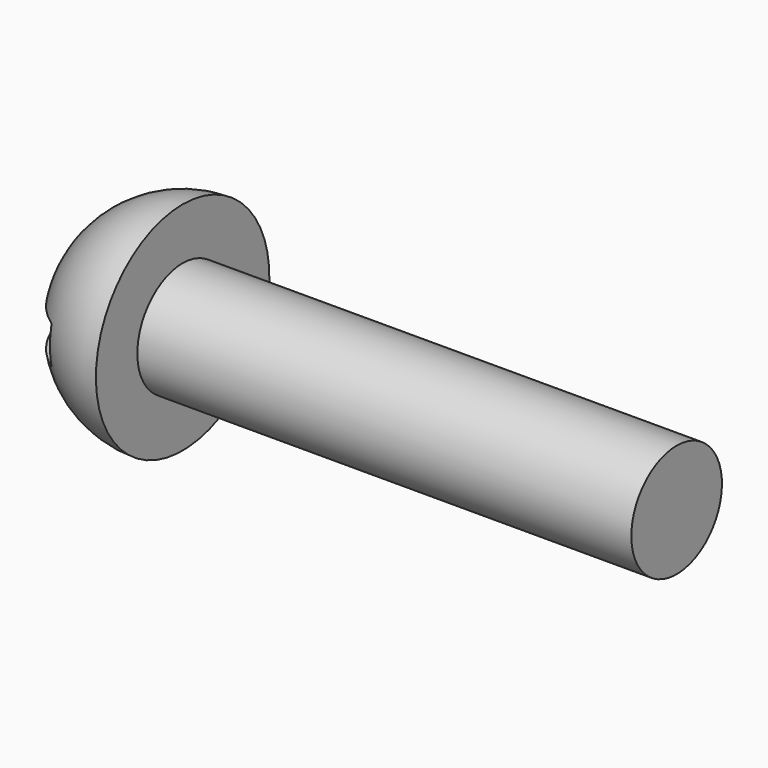
from build123d import *

# Parameters (mm, degrees)
F2_W     = 0.5
F2_H     = 0.4
F3_DEPTH = 12.5


with BuildPart() as f1:
    # F0 (on Front) → F1 (revolve)
    with BuildSketch(Plane.XZ):
        with BuildLine():
            Line((0, 0), (6.35, 0))
            Line((6.35, 0), (6.35, 0.5969))
            Line((6.35, 0.5969), (1.143, 0.5969))
            Line((1.143, 0.5969), (1.143, 1.143))
            ThreePointArc((1.143, 1.143), (0.3347769491, 0.8082230509), (0, 0))
        make_face()
    revolve(axis=Axis((3.175, 0, 0), (1, 0, 0)))

    # F2 (on Front) → F3 (cut, symmetric)
    with BuildSketch(Plane.XZ):
        with Locations((0.25, 0)):
            Rectangle(F2_W, F2_H)
    extrude(amount=F3_DEPTH, both=True, mode=Mode.SUBTRACT)


solid = f1.part
